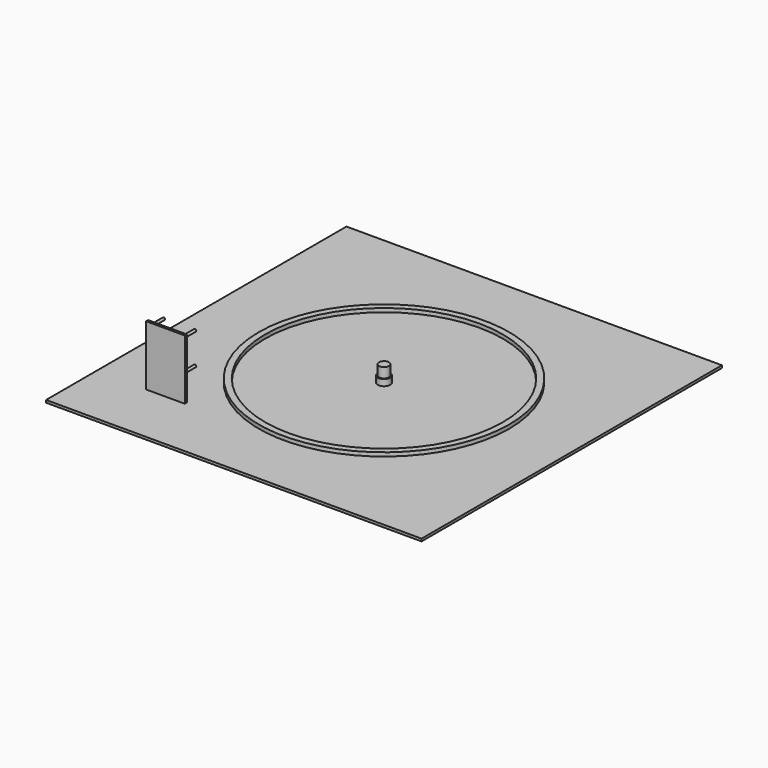
from build123d import *

# Parameters (mm, degrees)
F0_W     = 300
F0_H     = 300
F0_W_2   = 30.8238497376
F0_H_2   = 2
F0_R     = 100
F0_R_2   = 94.9999988079
F0_R_3   = 5
F1_DEPTH = 2
F2_DEPTH = 15
F3_DEPTH = 5
F4_DEPTH = 50
F5_R     = 1
F6_DEPTH = 15
F7_R     = 5
F7_R_2   = 4
F8_DEPTH = 8


with BuildPart() as f1:
    # F0 (on Top) → F1 (new body)
    with BuildSketch(Plane.XY):
        Rectangle(F0_W, F0_H)
        with Locations((-94.5880751312, -99)):
            Rectangle(F0_W_2, F0_H_2, mode=Mode.SUBTRACT)
        Circle(F0_R, mode=Mode.SUBTRACT)
        Circle(F0_R)
        Circle(F0_R_2, mode=Mode.SUBTRACT)
        Circle(F0_R_2)
        Circle(F0_R_3, mode=Mode.SUBTRACT)
        with Locations((-94.5880751312, -99)):
            Rectangle(F0_W_2, F0_H_2)
    extrude(amount=F1_DEPTH)

    # F0 (on Top) → F2 (join)
    with BuildSketch(Plane.XY):
        Circle(F0_R_3)
    extrude(amount=F2_DEPTH)

    # F0 (on Top) → F3 (join)
    with BuildSketch(Plane.XY):
        Circle(F0_R)
        Circle(F0_R_2, mode=Mode.SUBTRACT)
    extrude(amount=F3_DEPTH)

    # F0 (on Top) → F4 (join)
    with BuildSketch(Plane.XY):
        with Locations((-94.5880751312, -99)):
            Rectangle(F0_W_2, F0_H_2)
    extrude(amount=F4_DEPTH)

    # F5 (on face) → F6 (join)
    with BuildSketch(Plane(origin=(0, -98, 0), x_dir=(-1, 0, 0), z_dir=(0, 1, 0))):
        with Locations((84.5761502624, 45)):
            Circle(F5_R)
        with BuildLine():
            Line((110, 44.0942674788), (110, 45.9057325212))
            ThreePointArc((110, 45.9057325212), (108.5761502624, 45), (110, 44.0942674788))
        make_face()
        with BuildLine():
            ThreePointArc((110, 44.0942674788), (110.4199066661, 44.4632736906), (110.5761502624, 45))
            ThreePointArc((110.5761502624, 45), (110.4199066661, 45.5367263094), (110, 45.9057325212))
            Line((110, 45.9057325212), (110, 44.0942674788))
        make_face()
        with BuildLine():
            Line((110, 19.0942674788), (110, 20.9057325212))
            ThreePointArc((110, 20.9057325212), (108.5761502624, 20), (110, 19.0942674788))
        make_face()
        with BuildLine():
            ThreePointArc((110.5761502624, 20), (110.4199066661, 20.5367263094), (110, 20.9057325212))
            Line((110, 20.9057325212), (110, 19.0942674788))
            ThreePointArc((110, 19.0942674788), (110.4199066661, 19.4632736906), (110.5761502624, 20))
        make_face()
        with Locations((84.5761502624, 20)):
            Circle(F5_R)
    extrude(amount=F6_DEPTH)

    # F7 (on face) → F8 (cut)
    with BuildSketch(Plane.XY.offset(15)):
        Circle(F7_R)
        Circle(F7_R_2, mode=Mode.SUBTRACT)
    extrude(amount=-F8_DEPTH, mode=Mode.SUBTRACT)


solid = f1.part
